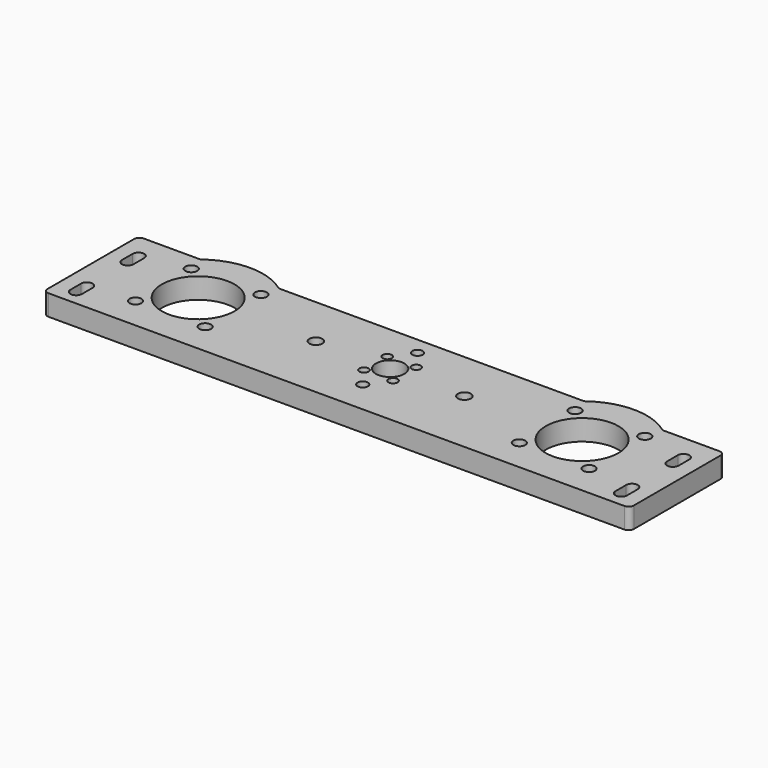
from build123d import *

# Parameters (mm, degrees)
F0_R     = 2.3
F0_R_2   = 1.75
F0_R_3   = 2
F0_R_4   = 14.025
F0_R_5   = 2.5
F0_R_6   = 5.475
F1_DEPTH = 8


with BuildPart() as f1:
    # F0 (on Top) → F1 (new body)
    with BuildSketch(Plane.XY):
        with BuildLine():
            Line((-88.381675, 1.503936), (-109.949748, 1.503936))
            ThreePointArc((-109.949748, 1.503936), (-111.363961, 0.918149), (-111.949748, -0.496064))
            Line((-111.949748, -0.496064), (-111.949748, -42.266064))
            ThreePointArc((-111.949748, -42.266064), (-111.363961, -43.680278), (-109.949748, -44.266064))
            Line((-109.949748, -44.266064), (-84.717208, -44.266064))
            Line((-84.717208, -44.266064), (86.817713, -44.266064))
            Line((86.817713, -44.266064), (112.050252, -44.266064))
            ThreePointArc((112.050252, -44.266064), (113.464466, -43.680278), (114.050252, -42.266064))
            Line((114.050252, -42.266064), (114.050252, -0.496064))
            ThreePointArc((114.050252, -0.496064), (113.464466, 0.918149), (112.050252, 1.503936))
            Line((112.050252, 1.503936), (90.48218, 1.503936))
            ThreePointArc((90.48218, 1.503936), (90.169776, 1.553986), (89.888644, 1.699128))
            ThreePointArc((89.888644, 1.699128), (75.050252, 6.578936), (60.211861, 1.699128))
            ThreePointArc((60.211861, 1.699128), (59.930729, 1.553986), (59.618325, 1.503936))
            Line((59.618325, 1.503936), (-57.51782, 1.503936))
            ThreePointArc((-57.51782, 1.503936), (-57.830224, 1.553986), (-58.111356, 1.699128))
            ThreePointArc((-58.111356, 1.699128), (-72.949748, 6.578936), (-87.788139, 1.699128))
            ThreePointArc((-87.788139, 1.699128), (-88.069271, 1.553986), (-88.381675, 1.503936))
        make_face()
        with BuildLine():
            Line((-101.799748, -33.231064), (-101.799748, -38.381064))
            ThreePointArc((-101.799748, -38.381064), (-104.024748, -40.606064), (-106.249748, -38.381064))
            Line((-106.249748, -38.381064), (-106.249748, -33.231064))
            ThreePointArc((-106.249748, -33.231064), (-104.024748, -31.006064), (-101.799748, -33.231064))
        make_face(mode=Mode.SUBTRACT)
        with Locations((-86.384776, -31.856093)):
            Circle(F0_R, mode=Mode.SUBTRACT)
        with Locations((-59.514719, -31.856093)):
            Circle(F0_R, mode=Mode.SUBTRACT)
        with Locations((-4.54473, -24.016047)):
            Circle(F0_R_2, mode=Mode.SUBTRACT)
        with Locations((1.050252, -31.621064)):
            Circle(F0_R_3, mode=Mode.SUBTRACT)
        with Locations((61.615224, -31.856093)):
            Circle(F0_R, mode=Mode.SUBTRACT)
        with BuildLine():
            Line((103.900252, -38.381064), (103.900252, -33.231064))
            ThreePointArc((103.900252, -33.231064), (106.125252, -31.006064), (108.350252, -33.231064))
            Line((108.350252, -33.231064), (108.350252, -38.381064))
            ThreePointArc((108.350252, -38.381064), (106.125252, -40.606064), (103.900252, -38.381064))
        make_face(mode=Mode.SUBTRACT)
        with Locations((88.485281, -31.856093)):
            Circle(F0_R, mode=Mode.SUBTRACT)
        with Locations((6.645235, -24.016047)):
            Circle(F0_R_2, mode=Mode.SUBTRACT)
        with Locations((-72.949748, -18.421064)):
            Circle(F0_R_4, mode=Mode.SUBTRACT)
        with BuildLine():
            Line((-106.249748, -13.531064), (-106.249748, -8.381064))
            ThreePointArc((-106.249748, -8.381064), (-104.024748, -6.156064), (-101.799748, -8.381064))
            Line((-101.799748, -8.381064), (-101.799748, -13.531064))
            ThreePointArc((-101.799748, -13.531064), (-104.024748, -15.756064), (-106.249748, -13.531064))
        make_face(mode=Mode.SUBTRACT)
        with Locations((-27.574748, -18.421064)):
            Circle(F0_R_5, mode=Mode.SUBTRACT)
        with Locations((-4.54473, -12.826082)):
            Circle(F0_R_2, mode=Mode.SUBTRACT)
        with Locations((-86.384776, -4.986036)):
            Circle(F0_R, mode=Mode.SUBTRACT)
        with Locations((-59.514719, -4.986036)):
            Circle(F0_R, mode=Mode.SUBTRACT)
        with Locations((1.050252, -18.421064)):
            Circle(F0_R_6, mode=Mode.SUBTRACT)
        with Locations((6.645235, -12.826082)):
            Circle(F0_R_2, mode=Mode.SUBTRACT)
        with Locations((29.675252, -18.421064)):
            Circle(F0_R_5, mode=Mode.SUBTRACT)
        with Locations((75.050252, -18.421064)):
            Circle(F0_R_4, mode=Mode.SUBTRACT)
        with BuildLine():
            ThreePointArc((103.900252, -8.381064), (106.125252, -6.156064), (108.350252, -8.381064))
            Line((108.350252, -8.381064), (108.350252, -13.531064))
            ThreePointArc((108.350252, -13.531064), (106.125252, -15.756064), (103.900252, -13.531064))
            Line((103.900252, -13.531064), (103.900252, -8.381064))
        make_face(mode=Mode.SUBTRACT)
        with Locations((1.050252, -5.221064)):
            Circle(F0_R_3, mode=Mode.SUBTRACT)
        with Locations((61.615224, -4.986036)):
            Circle(F0_R, mode=Mode.SUBTRACT)
        with Locations((88.485281, -4.986036)):
            Circle(F0_R, mode=Mode.SUBTRACT)
    extrude(amount=F1_DEPTH)


solid = f1.part
